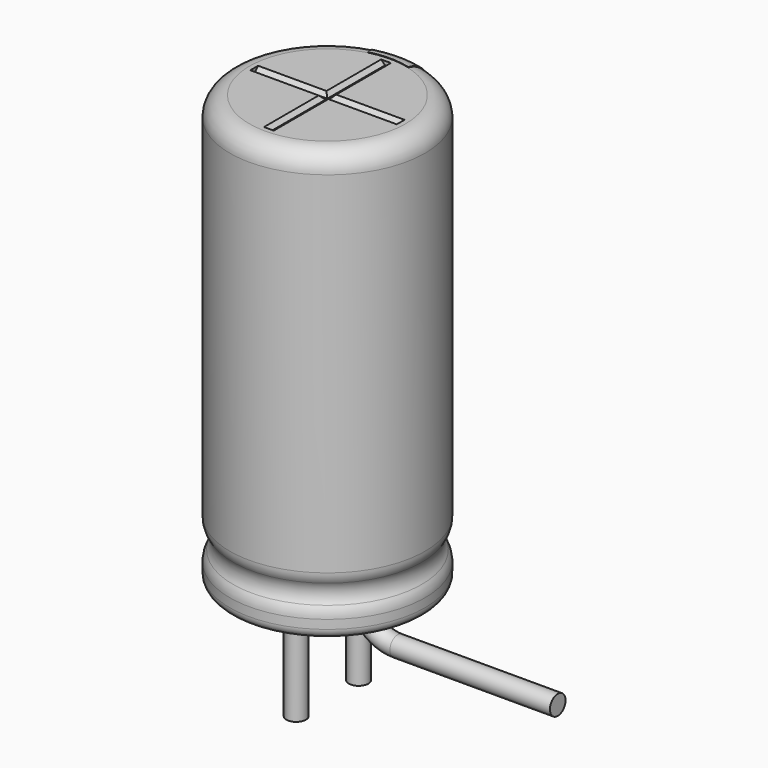
from build123d import *

# Parameters (mm, degrees)
SKETCH003_R         = 0.25
REVOLUTION001_ANGLE = -30
SKETCH015_W         = 0.5
SKETCH015_H         = 1
POCKET002_DEPTH     = 2.511
LINEARPATTERN_COUNT = 3
LINEARPATTERN_PITCH = 4
SKETCH010_R         = 0.25
PAD002_DEPTH        = 2.6
SKETCH013_R         = 2
PAD_DEPTH           = 0.5
POCKET001_DEPTH     = 1.875
POLARPATTERN_COUNT  = 3
POLARPATTERN_ANGLE  = 180
SKETCH012_R         = 2
POCKET_DEPTH        = 0.5


with BuildPart() as obj1:
    # AdditivePipe: sweep along a path in Sketch004
    with BuildLine(Plane.XZ) as additivepipe_path:
        Line((0, 0), (0, -0.5))
        ThreePointArc((0, -0.5), (0.292893, -1.207107), (1, -1.5))
        Line((1, -1.5), (5.1, -1.5))
    # Sketch003 (on ShapeBinder) → AdditivePipe (sweep)
    with BuildSketch(Plane(origin=(0, 0, 0), x_dir=(1, 0, 0), z_dir=(0, 0, -1))):
        with Locations((0, 1)):
            Circle(SKETCH003_R)
    sweep(path=additivepipe_path.line)


with BuildPart() as obj1_1:
    # Body003 placement: moved
    add(obj1.part.moved(Location((0, 2, 0))))


with BuildPart() as polaritymarking:
    # Sketch005 → Revolution001 (revolve)
    with BuildSketch(Plane(origin=(0, 0, 0), x_dir=(-0.258819, 0.965926, 0), z_dir=(0.965926, 0.258819, 0))):
        with BuildLine():
            Line((2.01, 0.25), (2.01, 11.01))
            ThreePointArc((2.01, 11.01), (2.363553, 10.863553), (2.51, 10.51))
            Line((2.51, 10.51), (2.51, 1.523941))
            ThreePointArc((2.51, 1.523941), (2.489134, 1.381006), (2.428278, 1.25))
            ThreePointArc((2.428278, 1.25), (2.353698, 1), (2.428278, 0.75))
            ThreePointArc((2.428278, 0.75), (2.489134, 0.618994), (2.51, 0.476059))
            Line((2.51, 0.476059), (2.51, 0.25))
            ThreePointArc((2.51, 0.25), (2.26, 0), (2.01, 0.25))
        make_face()
    revolve(axis=Axis((0, 0, 0), (0, 0, 1)), revolution_arc=REVOLUTION001_ANGLE)

    # Sketch015 → Pocket002 (cut, through all)
    with BuildSketch(Plane.XZ):
        with Locations((0, 2)):
            Rectangle(SKETCH015_W, SKETCH015_H)
    pocket002 = extrude(amount=-POCKET002_DEPTH, mode=Mode.SUBTRACT)

    # LinearPattern: Pocket002 ×3
    with Locations(*[(0, 0, i * LINEARPATTERN_PITCH) for i in range(1, LINEARPATTERN_COUNT)]):
        add(pocket002, mode=Mode.SUBTRACT)


with BuildPart() as obj2:
    # Sketch010 → Pad002 (new body)
    with BuildSketch(Plane(origin=(0, 1, 0), x_dir=(1, 0, 0), z_dir=(0, 0, 1))):
        Circle(SKETCH010_R)
    extrude(amount=-PAD002_DEPTH)


with BuildPart() as obj3:
    # Body007 base: copy of obj2
    add(obj2.part)


with BuildPart() as obj3_1:
    # Body007 placement: moved
    add(obj3.part.moved(Location((0, -2, 0))))


with BuildPart() as housingtop:
    # Sketch013 (on ShapeBinder) → Pad (new body)
    with BuildSketch(Plane.XY.offset(10.5)):
        Circle(SKETCH013_R)
    extrude(amount=PAD_DEPTH)

    # Sketch014 → Pocket001 (cut, symmetric)
    with BuildSketch(Plane.XZ):
        Polygon((-0.125, 11), (0.125, 11), (0.025, 10.9), (-0.025, 10.9), align=None)
    pocket001 = extrude(amount=POCKET001_DEPTH, both=True, mode=Mode.SUBTRACT)

    # PolarPattern: Pocket001 ×3 about axis
    polarpattern_axis = Axis((0, 0, 0), (0, 0, 1))
    for i in range(1, POLARPATTERN_COUNT):
        add(pocket001.rotate(polarpattern_axis, i * POLARPATTERN_ANGLE / (POLARPATTERN_COUNT - 1)), mode=Mode.SUBTRACT)


with BuildPart() as fusion:
    # Sketch → Revolution (revolve)
    with BuildSketch(Plane.XZ):
        with BuildLine():
            Line((0, 11), (2, 11))
            ThreePointArc((2.5, 10.5), (2.353553, 10.853553), (2, 11))
            Line((2.5, 10.5), (2.5, 1.523941))
            ThreePointArc((2.418278, 1.25), (2.479134, 1.381006), (2.5, 1.523941))
            ThreePointArc((2.418278, 1.25), (2.343698, 1), (2.418278, 0.75))
            ThreePointArc((2.5, 0.476059), (2.479134, 0.618994), (2.418278, 0.75))
            Line((2.5, 0.476059), (2.5, 0.25))
            ThreePointArc((2.25, 0), (2.426777, 0.073223), (2.5, 0.25))
            Line((0, 0), (2.25, 0))
            Line((0, 11), (0, 0))
        make_face()
    revolve(axis=Axis((0, 0, 0), (0, 0, 1)))

    # Sketch012 → Pocket (cut)
    with BuildSketch(Plane.XY.offset(11)):
        Circle(SKETCH012_R)
    extrude(amount=-POCKET_DEPTH, mode=Mode.SUBTRACT)

    # Fusion: union PolarityMarking, obj2, obj3, HousingTop
    add(polaritymarking.part)
    add(obj2.part)
    add(obj3_1.part)
    add(housingtop.part)


solid = Compound([obj1_1.part, fusion.part])
